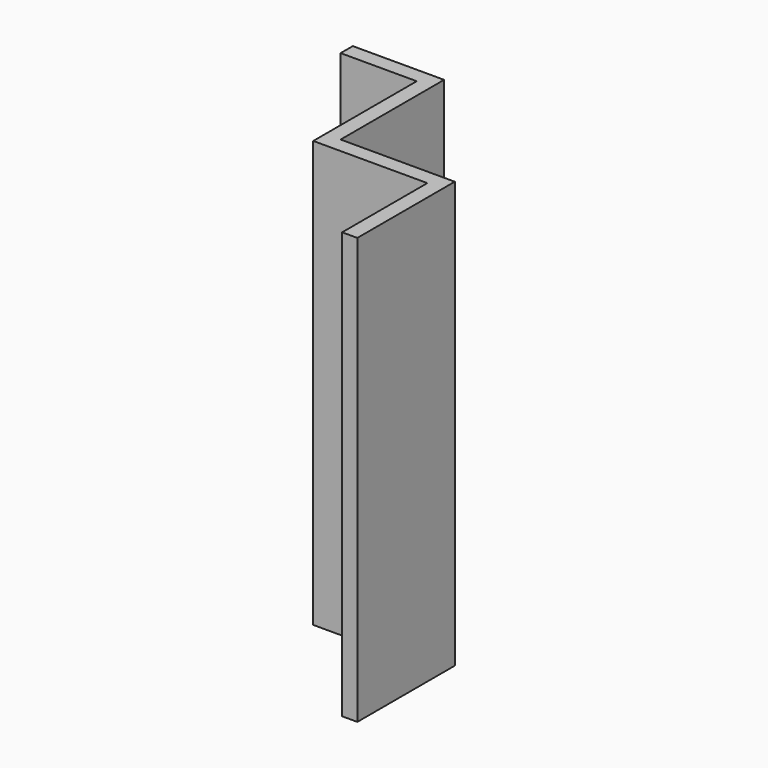
from build123d import *

# Parameters (mm, degrees)
F0_W     = 38.1
F0_H     = 177.8
F1_DEPTH = 6.35
F2_W     = 6.35
F2_H     = 177.8
F3_DEPTH = 53.975
F4_W     = 6.35
F4_H     = 177.8
F5_DEPTH = 47.625
F6_W     = 6.35
F6_H     = 177.8
F7_DEPTH = 44.45


with BuildPart() as f1:
    # F0 (on Front) → F1 (new body)
    with BuildSketch(Plane.XZ):
        with Locations((-19.05, -88.9)):
            Rectangle(F0_W, F0_H)
    extrude(amount=F1_DEPTH)

    # F2 (on face) → F3 (join)
    with BuildSketch(Plane.XZ.offset(6.35)):
        with Locations((-3.175, -88.9)):
            Rectangle(F2_W, F2_H)
    extrude(amount=F3_DEPTH)

    # F4 (on face) → F5 (join)
    with BuildSketch(Plane.YZ):
        with Locations((-57.15, -88.9)):
            Rectangle(F4_W, F4_H)
    extrude(amount=F5_DEPTH)

    # F6 (on face) → F7 (join)
    with BuildSketch(Plane.XZ.offset(60.325)):
        with Locations((44.45, -88.9)):
            Rectangle(F6_W, F6_H)
    extrude(amount=F7_DEPTH)


solid = f1.part
